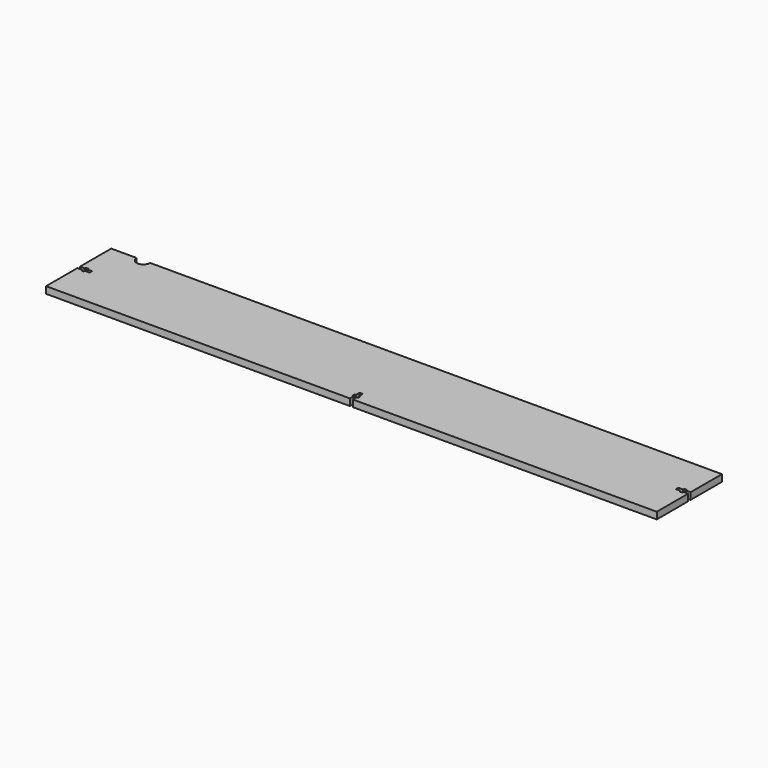
from build123d import *

# Parameters (mm, degrees)
F1_DEPTH = 6.35


with BuildPart() as f1:
    # F0 (on Top) → F1 (new body)
    with BuildSketch(Plane.XY):
        with BuildLine():
            Line((1.4605, -38.1), (285.75, -38.1))
            Line((285.75, -38.1), (285.75, -1.4605))
            Line((285.75, -1.4605), (281.305, -1.4605))
            Line((281.305, -1.4605), (281.305, -2.7305))
            Line((281.305, -2.7305), (278.765, -2.7305))
            Line((278.765, -2.7305), (278.765, -1.4605))
            Line((278.765, -1.4605), (274.32, -1.4605))
            Line((274.32, -1.4605), (274.32, 0))
            Line((274.32, 0), (274.32, 1.4605))
            Line((274.32, 1.4605), (278.765, 1.4605))
            Line((278.765, 1.4605), (278.765, 2.7305))
            Line((278.765, 2.7305), (281.305, 2.7305))
            Line((281.305, 2.7305), (281.305, 1.4605))
            Line((281.305, 1.4605), (285.75, 1.4605))
            Line((285.75, 1.4605), (285.75, 38.1))
            Line((285.75, 38.1), (-249.246808, 38.1))
            ThreePointArc((-249.246808, 38.1), (-255.596808, 31.75), (-261.946808, 38.1))
            Line((-261.946808, 38.1), (-285.75, 38.1))
            Line((-285.75, 38.1), (-285.75, 1.4605))
            Line((-285.75, 1.4605), (-281.305, 1.4605))
            Line((-281.305, 1.4605), (-281.305, 2.7305))
            Line((-281.305, 2.7305), (-278.765, 2.7305))
            Line((-278.765, 2.7305), (-278.765, 1.4605))
            Line((-278.765, 1.4605), (-274.32, 1.4605))
            Line((-274.32, 1.4605), (-274.32, 0))
            Line((-274.32, 0), (-274.32, -1.4605))
            Line((-274.32, -1.4605), (-278.765, -1.4605))
            Line((-278.765, -1.4605), (-278.765, -2.7305))
            Line((-278.765, -2.7305), (-281.305, -2.7305))
            Line((-281.305, -2.7305), (-281.305, -1.4605))
            Line((-281.305, -1.4605), (-285.75, -1.4605))
            Line((-285.75, -1.4605), (-285.75, -38.1))
            Line((-285.75, -38.1), (-1.4605, -38.1))
            Line((-1.4605, -38.1), (-1.4605, -33.655))
            Line((-1.4605, -33.655), (-2.7305, -33.655))
            Line((-2.7305, -33.655), (-2.7305, -31.115))
            Line((-2.7305, -31.115), (-1.4605, -31.115))
            Line((-1.4605, -31.115), (-1.4605, -26.67))
            Line((-1.4605, -26.67), (0, -26.67))
            Line((0, -26.67), (1.4605, -26.67))
            Line((1.4605, -26.67), (1.4605, -31.115))
            Line((1.4605, -31.115), (2.7305, -31.115))
            Line((2.7305, -31.115), (2.7305, -33.655))
            Line((2.7305, -33.655), (1.4605, -33.655))
            Line((1.4605, -33.655), (1.4605, -38.1))
        make_face()
    extrude(amount=F1_DEPTH)


solid = f1.part
